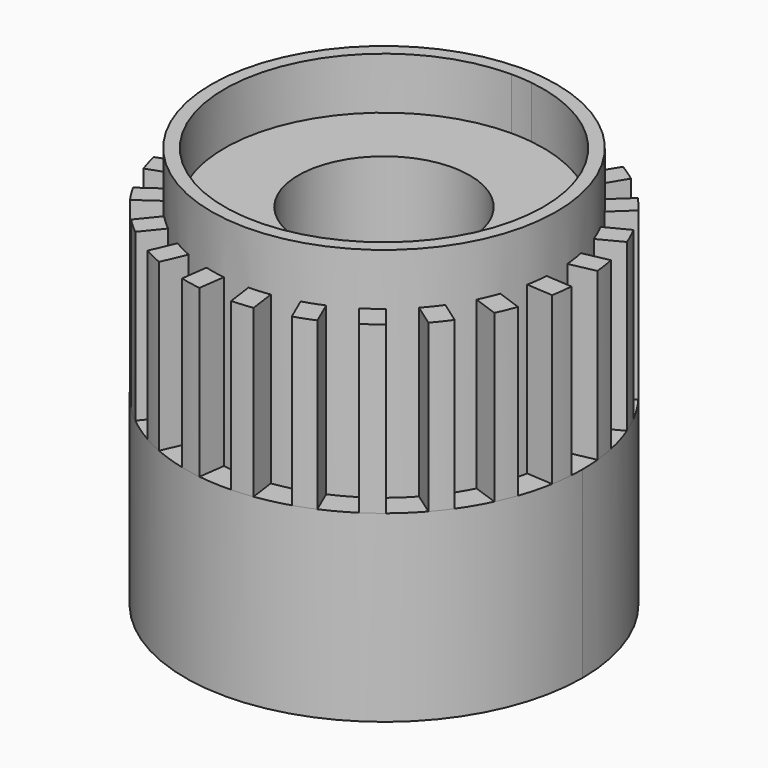
from build123d import *

# Parameters (mm, degrees)
F0_R     = 4.5
F0_R_2   = 3.3
F1_DEPTH = 6.4
F2_DEPTH = 8.4
F4_COUNT = 23
F5_DEPTH = 2
F6_DEPTH = 5.85
F7_DEPTH = 7.07


with BuildPart() as f1:
    # F0 (on Top) → F1 (new body)
    with BuildSketch(Plane.XY):
        with BuildLine():
            ThreePointArc((0, 7.1100645757), (-4.3416356365, -3.3715710607), (6.14, 0.9700645757))
            ThreePointArc((6.14, 0.9700645757), (4.6187674474, 5.0156284755), (0.8088640824, 7.0565527994))
            ThreePointArc((0.8088640824, 7.0565527994), (0.4053161155, 7.0966720257), (0, 7.1100645757))
        make_face()
        with Locations((0, 0.9700645757)):
            Circle(F0_R, mode=Mode.SUBTRACT)
        with Locations((0, 0.9700645757)):
            Circle(F0_R)
        with Locations((0, 0.9700645757)):
            Circle(F0_R_2, mode=Mode.SUBTRACT)
        with BuildLine():
            ThreePointArc((0, 7.6100645757), (0.4051871433, 7.5976903481), (0.8088640824, 7.5606137863))
            Line((0.8088640824, 7.5606137863), (0.8088640824, 8.3760242635))
            ThreePointArc((0.8088640824, 8.3760242635), (0.4050310645, 8.4090463499), (0, 8.4200645757))
            Line((0, 8.4200645757), (0, 7.6100645757))
        make_face()
        with BuildLine():
            ThreePointArc((0, 7.1100645757), (0.4053161155, 7.0966720257), (0.8088640824, 7.0565527994))
            Line((0.8088640824, 7.0565527994), (0.8088640824, 7.5606137863))
            ThreePointArc((0.8088640824, 7.5606137863), (0.4051871433, 7.5976903481), (0, 7.6100645757))
            Line((0, 7.6100645757), (0, 7.1100645757))
        make_face()
        with BuildLine():
            ThreePointArc((0, 8.4200645757), (0.4050310645, 8.4090463499), (0.8088640824, 8.3760242635))
            Line((0.8088640824, 8.3760242635), (0.8088640824, 8.5771822228))
            ThreePointArc((0.8088640824, 8.5771822228), (0.405, 8.6093364651), (0, 8.6200645757))
            Line((0, 8.6200645757), (0, 8.4200645757))
        make_face()
    extrude(amount=F1_DEPTH)



with BuildPart() as f2:
    # F0 (on Top) → F2 (new body)
    with BuildSketch(Plane.XY):
        with BuildLine():
            ThreePointArc((0.8088640824, 7.0565527994), (4.6187674474, 5.0156284755), (6.14, 0.9700645757))
            ThreePointArc((6.14, 0.9700645757), (-4.3416356365, -3.3715710607), (0, 7.1100645757))
            Line((0, 7.1100645757), (0, 7.6100645757))
            ThreePointArc((0, 7.6100645757), (-4.6951890271, -3.7251244513), (6.64, 0.9700645757))
            ThreePointArc((6.64, 0.9700645757), (4.9729497035, 5.3699931259), (0.8088640824, 7.5606137863))
            Line((0.8088640824, 7.5606137863), (0.8088640824, 7.0565527994))
        make_face()
        with BuildLine():
            ThreePointArc((0, 7.1100645757), (0.4053161155, 7.0966720257), (0.8088640824, 7.0565527994))
            Line((0.8088640824, 7.0565527994), (0.8088640824, 7.5606137863))
            ThreePointArc((0.8088640824, 7.5606137863), (0.4051871433, 7.5976903481), (0, 7.6100645757))
            Line((0, 7.6100645757), (0, 7.1100645757))
        make_face()
    extrude(amount=F2_DEPTH)


with BuildPart() as f1_1:
    add(f1.part)

    add(f2.part)  # F4 merges F2
    # F4: F1 ×23 about axis
    f4_axis = Axis((0, 0.9700645757, -1.082088449), (0, 0, -1))
    for i in range(1, F4_COUNT):
        add(f1.part.rotate(f4_axis, i * 360 / F4_COUNT))

    # F0 (on Top) → F5 (join)
    with BuildSketch(Plane.XY):
        with BuildLine():
            ThreePointArc((0, 7.1100645757), (-4.3416356365, -3.3715710607), (6.14, 0.9700645757))
            ThreePointArc((6.14, 0.9700645757), (4.6187674474, 5.0156284755), (0.8088640824, 7.0565527994))
            ThreePointArc((0.8088640824, 7.0565527994), (0.4053161155, 7.0966720257), (0, 7.1100645757))
        make_face()
        with Locations((0, 0.9700645757)):
            Circle(F0_R, mode=Mode.SUBTRACT)
    extrude(amount=-F5_DEPTH)

    # F0 (on Top) → F6 (join)
    with BuildSketch(Plane.XY):
        with BuildLine():
            ThreePointArc((0.8088640824, 7.0565527994), (4.6187674474, 5.0156284755), (6.14, 0.9700645757))
            ThreePointArc((6.14, 0.9700645757), (-4.3416356365, -3.3715710607), (0, 7.1100645757))
            Line((0, 7.1100645757), (0, 7.6100645757))
            ThreePointArc((0, 7.6100645757), (-4.6951890271, -3.7251244513), (6.64, 0.9700645757))
            ThreePointArc((6.64, 0.9700645757), (4.9729497035, 5.3699931259), (0.8088640824, 7.5606137863))
            Line((0.8088640824, 7.5606137863), (0.8088640824, 7.0565527994))
        make_face()
        with BuildLine():
            ThreePointArc((0, 7.1100645757), (0.4053161155, 7.0966720257), (0.8088640824, 7.0565527994))
            Line((0.8088640824, 7.0565527994), (0.8088640824, 7.5606137863))
            ThreePointArc((0.8088640824, 7.5606137863), (0.4051871433, 7.5976903481), (0, 7.6100645757))
            Line((0, 7.6100645757), (0, 7.1100645757))
        make_face()
    extrude(amount=-F6_DEPTH)

    # F0 (on Top) → F7 (join)
    with BuildSketch(Plane.XY):
        with BuildLine():
            Line((0.8088640824, 8.3760242635), (0.8088640824, 7.5606137863))
            ThreePointArc((0.8088640824, 7.5606137863), (4.9729497035, 5.3699931259), (6.64, 0.9700645757))
            ThreePointArc((6.64, 0.9700645757), (-4.6951890271, -3.7251244513), (0, 7.6100645757))
            Line((0, 7.6100645757), (0, 8.4200645757))
            ThreePointArc((0, 8.4200645757), (-5.2679455198, -4.2978809441), (7.45, 0.9700645757))
            ThreePointArc((7.45, 0.9700645757), (5.54655467, 5.9438188211), (0.8088640824, 8.3760242635))
        make_face()
        with BuildLine():
            Line((0.8088640824, 8.5771822228), (0.8088640824, 8.3760242635))
            ThreePointArc((0.8088640824, 8.3760242635), (5.54655467, 5.9438188211), (7.45, 0.9700645757))
            ThreePointArc((7.45, 0.9700645757), (-5.2679455198, -4.2978809441), (0, 8.4200645757))
            Line((0, 8.4200645757), (0, 8.6200645757))
            ThreePointArc((0, 8.6200645757), (-5.4093668761, -4.4393023003), (7.65, 0.9700645757))
            ThreePointArc((7.65, 0.9700645757), (5.6881592027, 6.0854672857), (0.8088640824, 8.5771822228))
        make_face()
        with BuildLine():
            ThreePointArc((0, 7.6100645757), (0.4051871433, 7.5976903481), (0.8088640824, 7.5606137863))
            Line((0.8088640824, 7.5606137863), (0.8088640824, 8.3760242635))
            ThreePointArc((0.8088640824, 8.3760242635), (0.4050310645, 8.4090463499), (0, 8.4200645757))
            Line((0, 8.4200645757), (0, 7.6100645757))
        make_face()
        with BuildLine():
            ThreePointArc((0, 8.4200645757), (0.4050310645, 8.4090463499), (0.8088640824, 8.3760242635))
            Line((0.8088640824, 8.3760242635), (0.8088640824, 8.5771822228))
            ThreePointArc((0.8088640824, 8.5771822228), (0.405, 8.6093364651), (0, 8.6200645757))
            Line((0, 8.6200645757), (0, 8.4200645757))
        make_face()
    extrude(amount=-F7_DEPTH)


solid = f1_1.part
